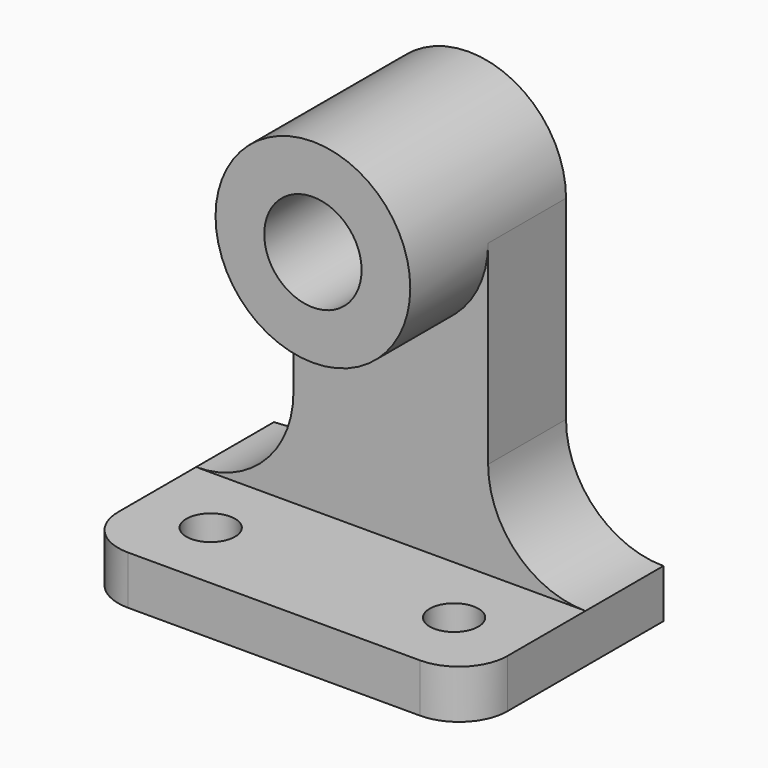
from build123d import *

# Parameters (mm, degrees)
F0_W      = 50.8
F0_H      = 57.15
F1_DEPTH  = 31.75
F2_W      = 50.8
F2_H      = 50.8
F3_DEPTH  = 6.35
F4_DEPTH  = 12.7
F6_DEPTH  = 25.4
F8_DEPTH  = 12.7
F9_DEPTH  = 25.4
F10_R     = 6.35
F11_DEPTH = 50.8
F12_R     = 3.175
F13_DEPTH = 25.4


with BuildPart() as f1:
    # F0 (on Front) → F1 (new body)
    with BuildSketch(Plane.XZ):
        with Locations((6.0355709866, -8.0190159138)):
            Rectangle(F0_W, F0_H)
    extrude(amount=F1_DEPTH)

    # F2 (on face) → F3 (join)
    with BuildSketch(Plane.XZ.offset(31.75)):
        with Locations((6.0355709866, -4.8440159138)):
            Rectangle(F2_W, F2_H)
    extrude(amount=F3_DEPTH)

    # F4 (cut): a face of the model
    f4_faces = [f1.faces().sort_by_distance(p)[0] for p in [
        (6.0355709866, -38.1, -4.8440159138),
    ]]
    extrude(f4_faces, amount=-F4_DEPTH, mode=Mode.SUBTRACT)

    # F5 (on face) → F6 (cut)
    with BuildSketch(Plane.XZ.offset(25.4)):
        with BuildLine():
            Line((-6.6644290134, -17.5440159138), (-6.6644290134, 20.5559840862))
            Line((-6.6644290134, 20.5559840862), (-19.3644290134, 20.5559840862))
            Line((-19.3644290134, 20.5559840862), (-19.3644290134, -30.2440159138))
            ThreePointArc((-19.3644290134, -30.2440159138), (-10.3841728924, -26.5242720349), (-6.6644290134, -17.5440159138))
        make_face()
        with BuildLine():
            Line((31.4355709866, 20.5559840862), (18.7355709866, 20.5559840862))
            Line((18.7355709866, 20.5559840862), (18.7355709866, -17.5440159138))
            ThreePointArc((18.7355709866, -17.5440159138), (22.4553148655, -26.5242720349), (31.4355709866, -30.2440159138))
            Line((31.4355709866, -30.2440159138), (31.4355709866, 20.5559840862))
        make_face()
    extrude(amount=-F6_DEPTH, mode=Mode.SUBTRACT)

    # F7 (on face) → F8 (cut)
    with BuildSketch(Plane.XZ.offset(25.4)):
        with BuildLine():
            ThreePointArc((6.0355709866, -4.8440159138), (-2.9446851345, -1.1242720349), (-6.6644290134, 7.8559840862))
            Line((-6.6644290134, 7.8559840862), (-6.6644290134, -17.5440159138))
            ThreePointArc((-6.6644290134, -17.5440159138), (-10.3841728924, -26.5242720349), (-19.3644290134, -30.2440159138))
            Line((-19.3644290134, -30.2440159138), (31.4355709866, -30.2440159138))
            ThreePointArc((31.4355709866, -30.2440159138), (22.4553148655, -26.5242720349), (18.7355709866, -17.5440159138))
            Line((18.7355709866, -17.5440159138), (18.7355709866, 7.8559840862))
            ThreePointArc((18.7355709866, 7.8559840862), (15.0158271076, -1.1242720349), (6.0355709866, -4.8440159138))
        make_face()
        with BuildLine():
            Line((18.7355709866, 20.5559840862), (6.0355709866, 20.5559840862))
            ThreePointArc((6.0355709866, 20.5559840862), (15.0158271076, 16.8362402072), (18.7355709866, 7.8559840862))
            Line((18.7355709866, 7.8559840862), (18.7355709866, 20.5559840862))
        make_face()
        with BuildLine():
            ThreePointArc((-6.6644290134, 7.8559840862), (-2.9446851345, 16.8362402072), (6.0355709866, 20.5559840862))
            Line((6.0355709866, 20.5559840862), (-6.6644290134, 20.5559840862))
            Line((-6.6644290134, 20.5559840862), (-6.6644290134, 7.8559840862))
        make_face()
    extrude(amount=-F8_DEPTH, mode=Mode.SUBTRACT)

    # F9 (cut): faces of the model
    f9_faces = [f1.faces().sort_by_distance(p)[0] for p in [
        (15.898798162, -12.7, 17.7192112615),
        (-3.8276561888, -12.7, 17.7192112615),
    ]]
    extrude(f9_faces, amount=-F9_DEPTH, mode=Mode.SUBTRACT)

    # F10 (on face) → F11 (cut)
    with BuildSketch(Plane.XZ.offset(25.4)):
        with Locations((6.0355709866, 7.8559840862)):
            Circle(F10_R)
    extrude(amount=-F11_DEPTH, mode=Mode.SUBTRACT)

    # F12 (on face) → F13 (cut)
    with BuildSketch(Plane.XY.offset(-30.2440159138)):
        with Locations((-9.8394290134, -22.225)):
            Circle(F12_R)
        with BuildLine():
            ThreePointArc((-13.0144290134, -31.75), (-17.504557074, -29.8901280605), (-19.3644290134, -25.4))
            Line((-19.3644290134, -25.4), (-19.3644290134, -31.75))
            Line((-19.3644290134, -31.75), (-13.0144290134, -31.75))
        make_face()
        with Locations((21.9105709866, -22.225)):
            Circle(F12_R)
        with BuildLine():
            Line((31.4355709866, -31.75), (31.4355709866, -25.4))
            ThreePointArc((31.4355709866, -25.4), (29.5756990471, -29.8901280605), (25.0855709866, -31.75))
            Line((25.0855709866, -31.75), (31.4355709866, -31.75))
        make_face()
    extrude(amount=-F13_DEPTH, mode=Mode.SUBTRACT)


solid = f1.part
